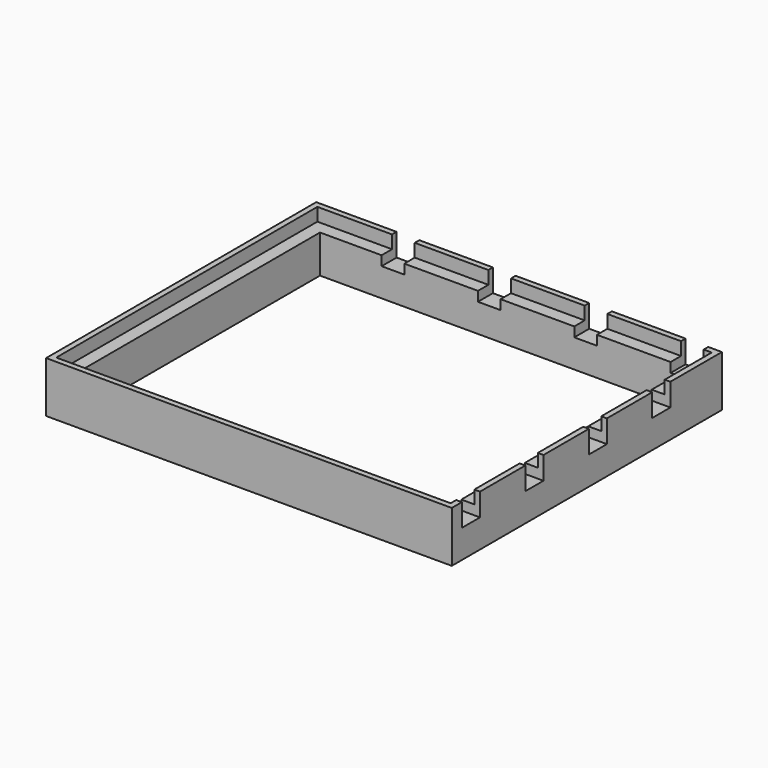
from build123d import *

# Parameters (mm, degrees)
SKETCH017_W     = 71.6
SKETCH017_H     = 59.6
SKETCH017_W_2   = 65
SKETCH017_H_2   = 53
PAD009_DEPTH    = 9
SKETCH015_W     = 69.6
SKETCH015_H     = 57.6
POCKET004_DEPTH = 2.3
SKETCH016_W     = 4
SKETCH016_H     = 5.483822
SKETCH016_H_2   = 6.120376
SKETCH016_H_3   = 8.800861
SKETCH016_H_4   = 6.480469
SKETCH016_W_2   = 4.596547
SKETCH016_H_5   = 4
SKETCH016_W_3   = 6.834637
SKETCH016_W_4   = 8.377245
SKETCH016_W_5   = 7.094059
POCKET006_DEPTH = 4


with BuildPart() as part:
    # Sketch017 → Pad009 (new body)
    with BuildSketch(Plane.XY):
        with Locations((32.5, 26.5)):
            Rectangle(SKETCH017_W, SKETCH017_H)
        with Locations((32.5, 26.5)):
            Rectangle(SKETCH017_W_2, SKETCH017_H_2, mode=Mode.SUBTRACT)
    extrude(amount=PAD009_DEPTH)

    # Sketch015 (on Face10 of Pad009) → Pocket004 (cut)
    with BuildSketch(Plane.XY.offset(9)):
        with Locations((32.5, 26.5)):
            Rectangle(SKETCH015_W, SKETCH015_H)
    extrude(amount=-POCKET004_DEPTH, mode=Mode.SUBTRACT)

    # Sketch016 (on Face5 of Pocket004) → Pocket006 (cut)
    with BuildSketch(Plane.XY.offset(9)):
        with Locations((12.880272, 55.392385)):
            Rectangle(SKETCH016_W, SKETCH016_H)
        with Locations((29.880272, 54.935013)):
            Rectangle(SKETCH016_W, SKETCH016_H_2)
        with Locations((46.880272, 55.440656)):
            Rectangle(SKETCH016_W, SKETCH016_H_3)
        with Locations((63.880272, 54.707588)):
            Rectangle(SKETCH016_W, SKETCH016_H_4)
        with Locations((66.550759, 42.929046)):
            Rectangle(SKETCH016_W_2, SKETCH016_H_5)
        with Locations((68.417426, 28.929046)):
            Rectangle(SKETCH016_W_3, SKETCH016_H_5)
        with Locations((68.143181, 14.929046)):
            Rectangle(SKETCH016_W_4, SKETCH016_H_5)
        with Locations((68.408536, 0.929046)):
            Rectangle(SKETCH016_W_5, SKETCH016_H_5)
    extrude(amount=-POCKET006_DEPTH, mode=Mode.SUBTRACT)


with BuildPart() as part_1:
    # Body003 placement: moved
    add(part.part.moved(Location((8, 6, -9))))


solid = part_1.part
